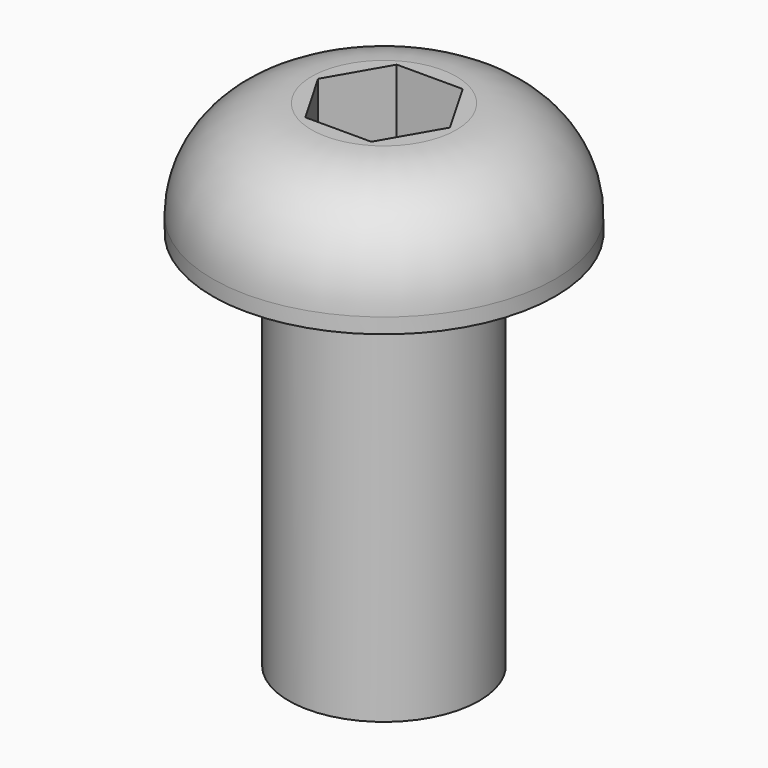
from build123d import *

# Parameters (mm, degrees)
F0_R     = 2.5
F1_DEPTH = 10
F0_R_2   = 4.5
F2_DEPTH = 3
F3_R     = 2.6
F5_DEPTH = 2


with BuildPart() as f1:
    # F0 (on Top) → F1 (new body)
    with BuildSketch(Plane.XY):
        Circle(F0_R)
    extrude(amount=-F1_DEPTH)

    # F0 (on Top) → F2 (join)
    with BuildSketch(Plane.XY):
        Circle(F0_R_2)
        Circle(F0_R, mode=Mode.SUBTRACT)
        Circle(F0_R)
    extrude(amount=F2_DEPTH)

    # F3
    f3_edges = [f1.edges().sort_by_distance(p)[0] for p in [
        (-4.5, 0, 3),
    ]]
    fillet(f3_edges, radius=F3_R)

    # F4 (on face) → F5 (cut)
    with BuildSketch(Plane.XY.offset(3)):
        Polygon((-0.866025, -1.5), (0.866025, -1.5), (1.732051, 0), (0.866025, 1.5), (-0.866025, 1.5), (-1.732051, 0), align=None)
    extrude(amount=-F5_DEPTH, mode=Mode.SUBTRACT)


solid = f1.part
